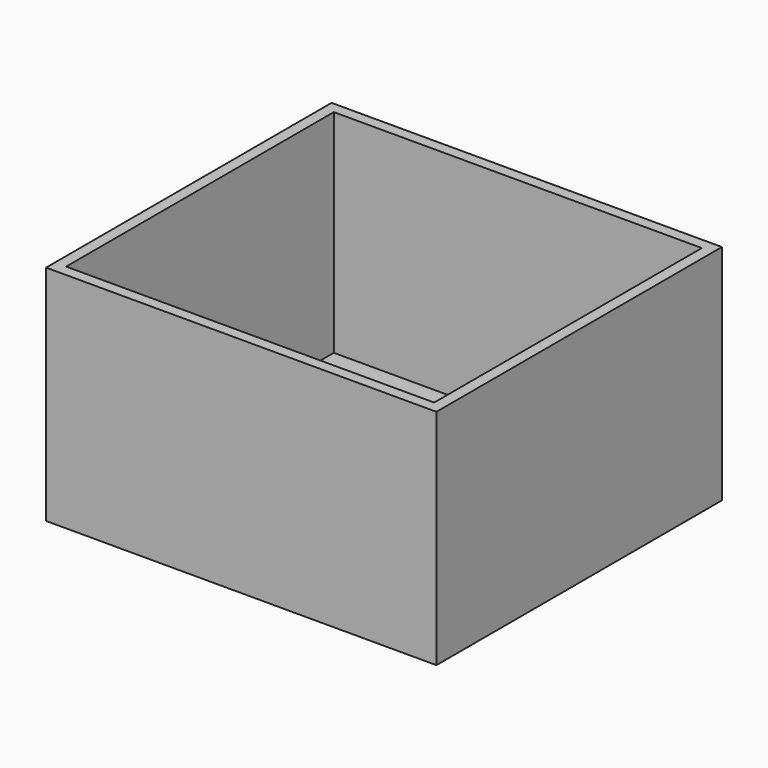
from build123d import *

# Parameters (mm, degrees)
F0_W     = 444.5
F0_H     = 406.4
F0_W_2   = 419.1
F0_H_2   = 381
F1_DEPTH = 254
F2_W     = 419.1
F2_H     = 381
F3_DEPTH = 12.7
F4_W     = 419.1
F4_H     = 381
F5_DEPTH = 6.35


with BuildPart() as f1:
    # F0 (on Top) → F1 (new body)
    with BuildSketch(Plane.XY):
        Rectangle(F0_W, F0_H)
        Rectangle(F0_W_2, F0_H_2, mode=Mode.SUBTRACT)
    extrude(amount=F1_DEPTH)

    # F2 (on face) → F3 (join)
    with BuildSketch(Plane(origin=(0, 0, 0), x_dir=(1, 0, 0), z_dir=(0, 0, -1))):
        Rectangle(F2_W, F2_H)
    extrude(amount=-F3_DEPTH)

    # F4 (on face) → F5 (cut)
    with BuildSketch(Plane(origin=(0, 0, 0), x_dir=(1, 0, 0), z_dir=(0, 0, -1))):
        Rectangle(F4_W, F4_H)
    extrude(amount=-F5_DEPTH, mode=Mode.SUBTRACT)


solid = f1.part
